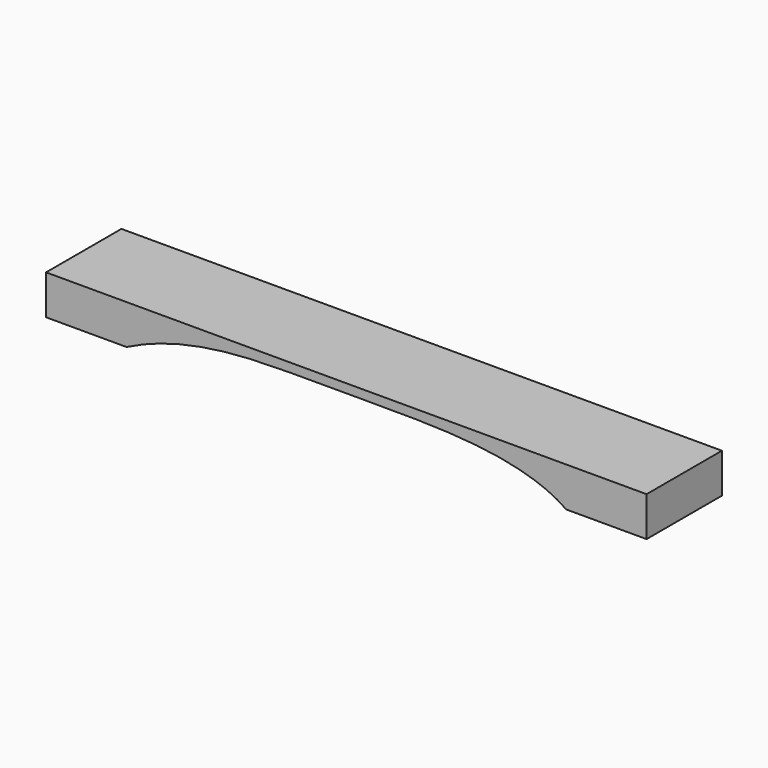
from build123d import *

# Parameters (mm, degrees)
BAR_DEPTH = 69


with BuildPart() as part:
    # Sketch → Bar (new body)
    with BuildSketch(Plane.XZ):
        with BuildLine():
            Line((58.89, 0), (0, 0))
            Line((0, 0), (0, 29))
            Line((0, 29), (440, 29))
            Line((440, 29), (440, 0))
            Line((440, 0), (381.11, 0))
            add(Edge.make_bspline(
                [(381.11, 0), (349.72, 22.44), (227.77, 22.31), (188.46, 22.98), (100.31, 21.1), (58.89, 0)],
                knots=[0, 0, 0, 0, 0.333333, 0.666667, 1, 1, 1, 1], degree=3))
        make_face()
    extrude(amount=BAR_DEPTH)


solid = part.part
